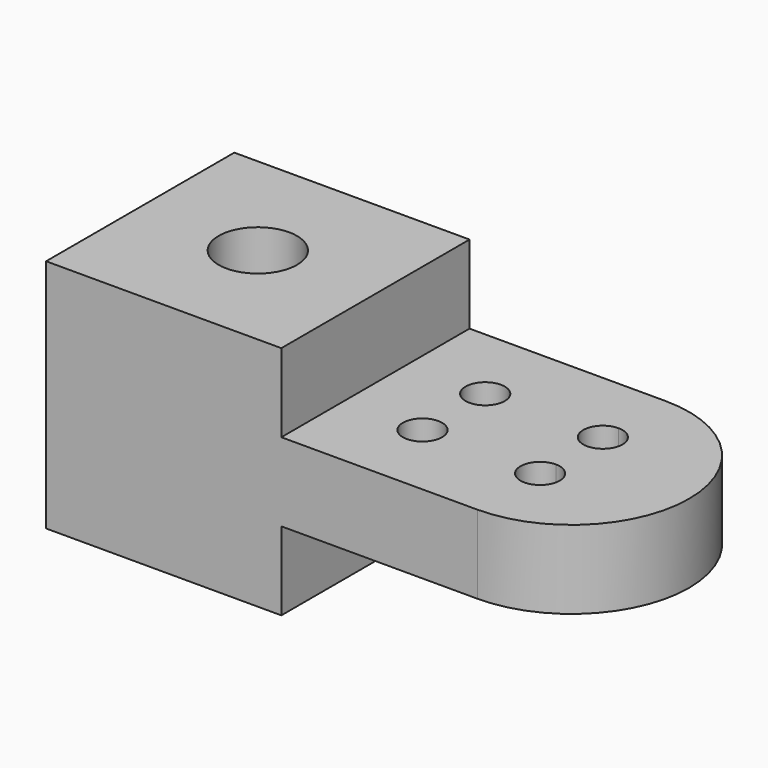
from build123d import *

# Parameters (mm, degrees)
F0_W     = 38.1
F0_H     = 38.1
F0_R     = 6.35
F1_DEPTH = 38.1
F3_START = -12.7
F2_R     = 3.175
F3_DEPTH = 12.7


with BuildPart() as f1:
    # F0 (on Top) → F1 (new body)
    with BuildSketch(Plane.XY):
        with Locations((19.05, 19.05)):
            Rectangle(F0_W, F0_H)
        with Locations((19.05, 19.05)):
            Circle(F0_R, mode=Mode.SUBTRACT)
    extrude(amount=F1_DEPTH)

    # F2 (on face) → F3 (join)
    with BuildSketch(Plane.XY.offset(38.1).offset(F3_START)):
        with BuildLine():
            Line((69.85, 38.1), (38.1, 38.1))
            Line((38.1, 38.1), (38.1, 0))
            Line((38.1, 0), (69.85, 0))
            Line((69.85, 0), (69.85, 9.525))
            ThreePointArc((69.85, 9.525), (66.675, 12.7), (69.85, 15.875))
            Line((69.85, 15.875), (69.85, 22.225))
            ThreePointArc((69.85, 22.225), (66.675, 25.4), (69.85, 28.575))
            Line((69.85, 28.575), (69.85, 38.1))
        make_face()
        with Locations((50.8, 12.7)):
            Circle(F2_R, mode=Mode.SUBTRACT)
        with Locations((50.8, 25.4)):
            Circle(F2_R, mode=Mode.SUBTRACT)
        with BuildLine():
            ThreePointArc((69.85, 0), (88.9, 19.05), (69.85, 38.1))
            Line((69.85, 38.1), (69.85, 28.575))
            ThreePointArc((69.85, 28.575), (72.0950640303, 27.6450640303), (73.025, 25.4))
            ThreePointArc((73.025, 25.4), (72.0950640303, 23.1549359697), (69.85, 22.225))
            Line((69.85, 22.225), (69.85, 15.875))
            ThreePointArc((69.85, 15.875), (72.0950640303, 14.9450640303), (73.025, 12.7))
            ThreePointArc((73.025, 12.7), (72.0950640303, 10.4549359697), (69.85, 9.525))
            Line((69.85, 9.525), (69.85, 0))
        make_face()
    extrude(amount=-F3_DEPTH)


solid = f1.part
